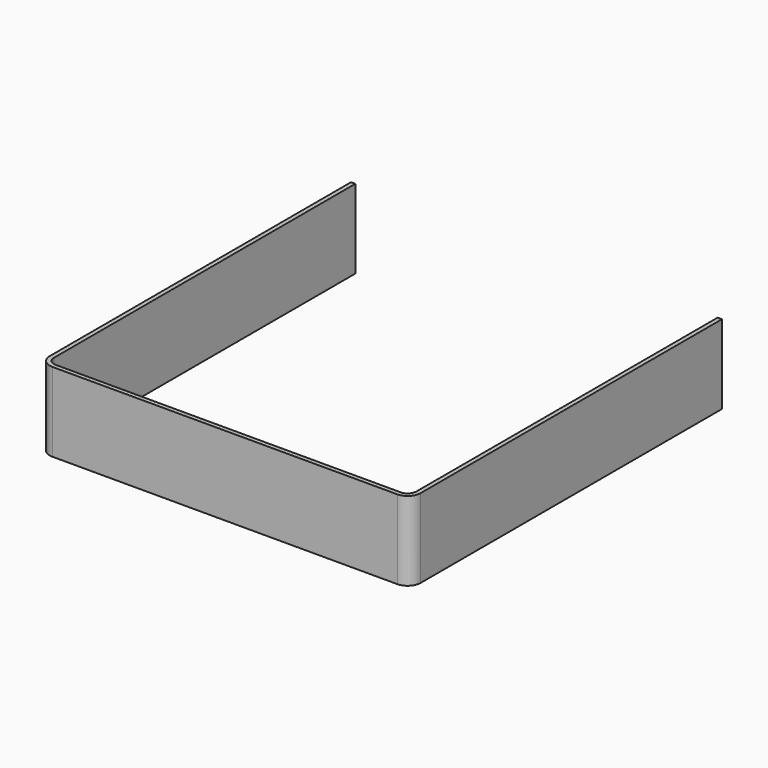
from build123d import *

# Parameters (mm, degrees)
SKETCH040_W    = 252
SKETCH040_H    = 268
PAD011_DEPTH   = 55
FILLET013_R    = 6
THICKNESS001_T = 3


with BuildPart() as part:
    # Sketch040 → Pad011 (new body)
    with BuildSketch(Plane.XY):
        with Locations((0, -134)):
            Rectangle(SKETCH040_W, SKETCH040_H)
    extrude(amount=PAD011_DEPTH)

    # Fillet013
    fillet013_edges = [part.edges().sort_by_distance(p)[0] for p in [
        (126, -268, 27.5),
        (-126, -268, 27.5),
    ]]
    fillet(fillet013_edges, radius=FILLET013_R)

    # Thickness001
    thickness001_openings = [part.faces().sort_by_distance(p)[0] for p in [
        (0, -133.969642, 55),
        (0, -133.969642, 0),
        (0, 0, 27.5),
    ]]
    offset(amount=THICKNESS001_T, openings=thickness001_openings)


solid = part.part
